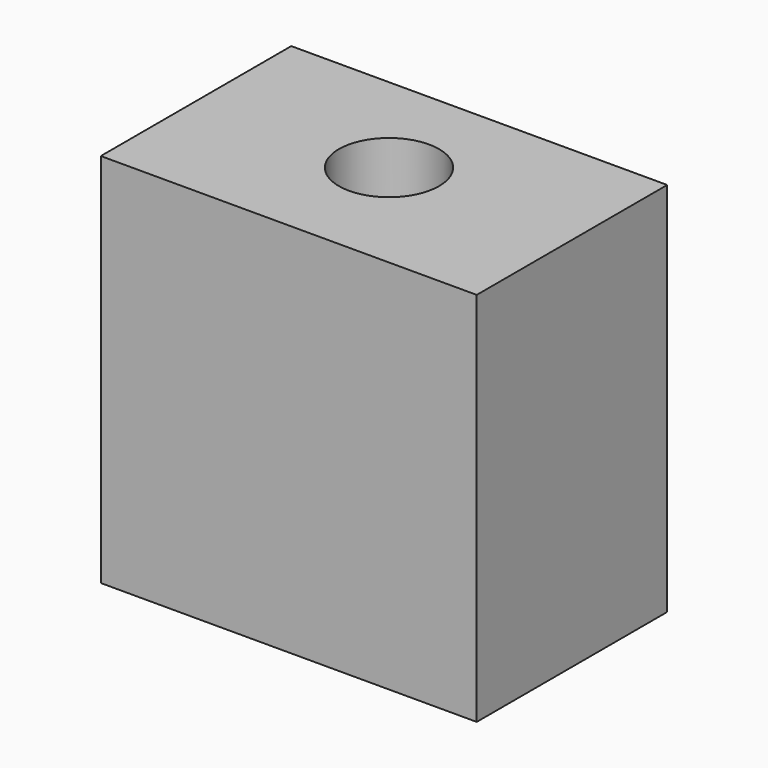
from build123d import *

# Parameters (mm, degrees)
F0_W     = 19
F0_H     = 30
F1_DEPTH = 30
F2_R     = 4
F3_DEPTH = 25


with BuildPart() as f1:
    # F0 (on Right) → F1 (new body)
    with BuildSketch(Plane.YZ):
        with Locations((9.5, 15)):
            Rectangle(F0_W, F0_H)
    extrude(amount=F1_DEPTH)

    # F2 (on face) → F3 (cut)
    with BuildSketch(Plane.XY.offset(30)):
        with Locations((15, 10)):
            Circle(F2_R)
    extrude(amount=-F3_DEPTH, mode=Mode.SUBTRACT)


solid = f1.part
